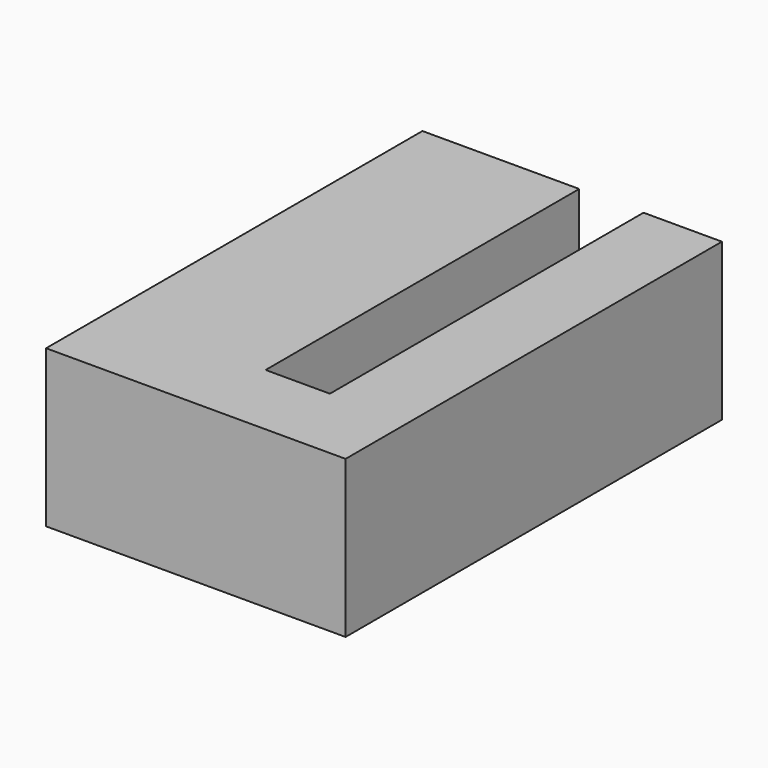
from build123d import *

# Parameters (mm, degrees)
PAD_DEPTH = 10


with BuildPart() as part:
    # Sketch → Pad (new body)
    with BuildSketch(Plane.XY):
        Polygon((0, 30), (10, 30), (10, 5), (14.1, 5), (14.1, 30), (19.1, 30), (19.1, 0), (0, 0), align=None)
    extrude(amount=PAD_DEPTH)


solid = part.part
